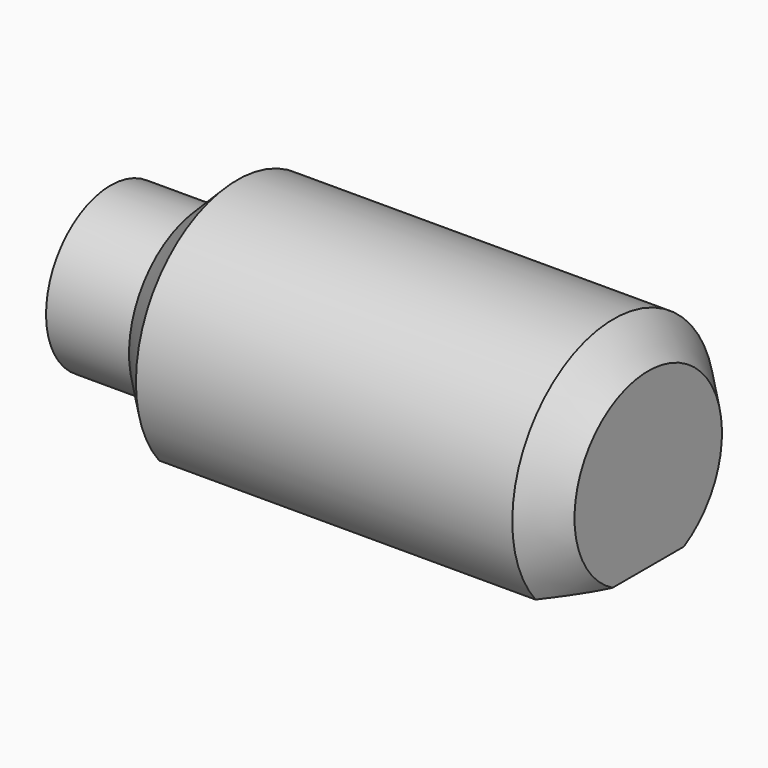
from build123d import *

# Parameters (mm, degrees)
F3_DEPTH = 73.8
F4_R     = 11
F5_DEPTH = 15


with BuildPart() as f1:
    # F0 (on Front) → F1 (revolve)
    with BuildSketch(Plane.XZ):
        Polygon((0, 10.5), (0, 0), (70, 0), (70, 12), (65.5, 16.5), (16.5, 16.5), (12, 12), (12, 10.5), align=None)
    revolve(axis=Axis((-7.5785342084, 0, 0), (-1, 0, 0)))

    # F2 (on face) → F3 (cut)
    with BuildSketch(Plane.YZ.offset(70)):
        with BuildLine():
            Line((-5.8094750193, -10.5), (-12.7279220614, -10.5))
            ThreePointArc((-12.7279220614, -10.5), (0, -16.5), (12.7279220614, -10.5))
            Line((12.7279220614, -10.5), (5.8094750193, -10.5))
            ThreePointArc((5.8094750193, -10.5), (0, -12), (-5.8094750193, -10.5))
        make_face()
        with BuildLine():
            Line((5.8094750193, -10.5), (-5.8094750193, -10.5))
            ThreePointArc((-5.8094750193, -10.5), (0, -12), (5.8094750193, -10.5))
        make_face()
    extrude(amount=-F3_DEPTH, mode=Mode.SUBTRACT)

    # F4 (on face) → F5 (cut)
    with BuildSketch(Plane(origin=(0, 0, -10.5), x_dir=(1, 0, 0), z_dir=(0, 0, -1))):
        with Locations((40, 0)):
            Circle(F4_R)
    extrude(amount=-F5_DEPTH, mode=Mode.SUBTRACT)


solid = f1.part
